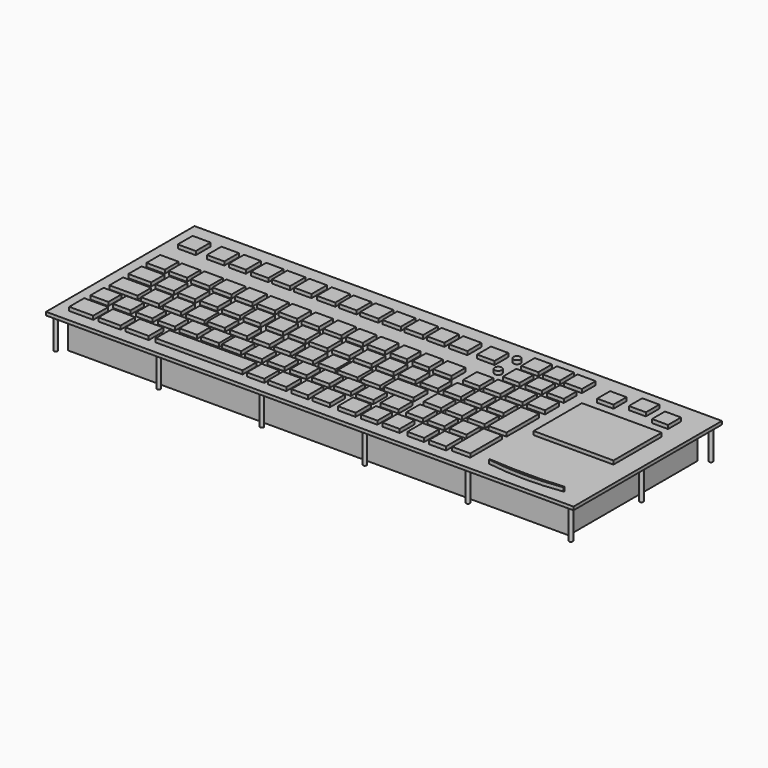
from build123d import *

# Parameters (mm, degrees)
F0_W     = 432
F0_H     = 152
F0_W_2   = 19.6858048439
F0_H_2   = 15.3465718031
F0_W_3   = 18.0640816689
F0_H_3   = 14.8716643453
F0_W_4   = 19.0963149071
F0_W_5   = 14.6065950394
F0_H_4   = 13.4158954024
F0_W_6   = 14.5390331745
F0_H_5   = 13.8498917222
F0_W_7   = 13.4540200233
F0_H_6   = 13.6328935623
F0_W_8   = 13.8880312443
F0_W_9   = 71.1652040482
F0_H_7   = 14.1954794526
F0_W_10  = 14.23304528
F0_H_8   = 15.1425004005
F0_W_11  = 14.9629376829
F0_H_9   = 15.3249725699
F0_W_12  = 13.6856138706
F0_H_10  = 15.8723965287
F0_W_13  = 14.7560238838
F0_W_14  = 15.6511217356
F0_H_11  = 13.8281211257
F0_W_15  = 13.8098299503
F0_H_12  = 14.4418887794
F0_W_16  = 13.8279125094
F0_W_17  = 13.5029405355
F0_H_13  = 13.5212317109
F0_W_18  = 14.4235920161
F0_W_19  = 22.991836071
F0_H_14  = 13.9925573021
F0_W_20  = 14.5979821682
F0_H_15  = 14.5399812609
F0_W_21  = 14.7304534912
F0_H_16  = 14.422448352
F0_W_22  = 15.1908099651
F0_H_17  = 14.2690055072
F0_W_23  = 14.2701566219
F0_H_18  = 13.9074269682
F0_W_24  = 13.9632672071
F0_H_19  = 14.060869813
F0_W_25  = 14.0641778708
F0_H_20  = 14.1697302461
F0_W_26  = 13.677097857
F0_H_21  = 14.5568177104
F0_W_27  = 14.1932144761
F0_H_22  = 14.9439051747
F0_W_28  = 14.0641853213
F0_W_29  = 16.2609871477
F0_H_23  = 15.0556545705
F0_W_30  = 14.3220252357
F0_H_24  = 15.6326293945
F0_W_31  = 14.5390294492
F0_W_32  = 13.2370218635
F0_H_25  = 15.1986330748
F0_W_33  = 14.1050219536
F0_H_26  = 15.4003128409
F0_W_34  = 13.712823391
F0_W_35  = 14.0045583248
F0_H_27  = 16.1302164197
F0_W_36  = 13.8098215684
F0_H_28  = 14.1350030899
F0_W_37  = 14.1167081892
F0_W_38  = 14.7304609418
F0_W_39  = 13.8098224998
F0_H_29  = 14.0074715018
F0_H_30  = 14.1899436712
F0_W_40  = 14.8306339979
F0_H_31  = 32.3330610991
F0_W_41  = 15.6511291862
F0_W_42  = 24.2439210415
F0_H_32  = 14.1349993646
F0_W_43  = 14.4235789776
F0_H_33  = 14.4418831915
F0_H_34  = 14.7482715547
F0_H_35  = 14.59482871
F0_H_36  = 33.4180630744
F0_W_44  = 18.6666846275
F0_H_37  = 13.4857883677
F0_W_45  = 14.8839354515
F0_H_38  = 14.0995569527
F0_W_46  = 14.116704464
F0_H_39  = 14.5598845556
F0_W_47  = 15.0373578072
F0_H_40  = 14.4064426422
F0_H_41  = 14.1167081892
F0_H_42  = 13.4232603014
F0_H_43  = 13.9632634819
F0_W_48  = 15.6511366367
F0_H_44  = 14.3147818744
F0_H_45  = 14.7751048207
F0_W_49  = 14.2330378294
F0_H_46  = 14.7486450151
F0_H_47  = 15.1135949418
F0_W_50  = 14.9629414082
F0_W_51  = 14.2330415547
F0_H_48  = 14.0187460929
F0_W_52  = 14.6135669202
F0_H_49  = 14.3836950883
F0_W_53  = 14.8839205503
F0_H_50  = 14.0078924596
F0_W_54  = 15.327885747
F0_H_51  = 14.3149830401
F0_W_55  = 14.4155174494
F0_W_56  = 14.7804692388
F0_H_52  = 15.0448828936
F0_W_57  = 13.9632634819
F0_H_53  = 14.0203051269
F0_W_58  = 14.4235882908
F0_H_54  = 13.8668641448
F0_W_59  = 14.7549808025
F0_H_55  = 15.1523277164
F0_W_60  = 14.2701268196
F0_H_56  = 14.8454457521
F0_W_61  = 13.809800148
F0_H_57  = 15.4592171311
F0_H_58  = 15.7660990953
F0_H_59  = 15.7078951597
F0_H_60  = 15.2475684881
F0_W_62  = 14.577023685
F0_H_61  = 15.0209292769
F0_W_63  = 14.8839130998
F0_H_62  = 15.4812559485
F0_W_64  = 15.0373615324
F0_H_63  = 15.1743665338
F0_W_65  = 15.1908043772
F0_W_66  = 14.2330406234
F0_W_67  = 13.8680972159
F0_W_68  = 14.2330527306
F0_H_64  = 14.7720631212
F0_W_69  = 13.851121068
F0_H_65  = 14.3117355183
F0_W_70  = 13.5029349476
F0_W_71  = 13.8098187745
F0_H_66  = 14.5885869861
F0_W_72  = 13.5031491518
F0_H_67  = 14.2236351967
F0_H_68  = 14.6817006171
F0_W_73  = 13.9953643084
F0_H_69  = 14.4992247224
F0_W_74  = 65.3664916754
F0_H_70  = 49.4084712118
F0_H_71  = 14.3167488277
F0_W_75  = 14.233039692
F0_H_72  = 14.8714780807
F0_H_73  = 14.5065262914
F0_W_76  = 14.2322406173
F0_H_74  = 14.141574502
F0_R     = 2.9038733045
F0_W_77  = 13.8342231512
F0_H_75  = 13.9150470495
F0_W_78  = 13.386875391
F0_H_76  = 13.3676230907
F0_R_2   = 2.9038759965
F0_W_79  = 14.0167027712
F0_H_77  = 13.8909220695
F0_W_80  = 13.9342993498
F0_H_78  = 14.504685998
F0_W_81  = 13.7357860804
F0_H_79  = 13.1851509213
F0_W_82  = 13.3785307407
F0_H_80  = 13.2292248309
F0_W_83  = 13.1381899118
F0_H_81  = 13.3206620812
F0_H_82  = 14.05056566
F0_W_84  = 13.9593333006
F0_H_83  = 13.6856175959
F1_DEPTH = 2.7
F2_DEPTH = 3
F3_DEPTH = 3
F4_W     = 410
F4_H     = 132
F5_DEPTH = 26
F4_R     = 1.5


with BuildPart() as f1:
    # F0 (on Top) → F1 (new body)
    with BuildSketch(Plane.XY):
        Rectangle(F0_W, F0_H)
        with Locations((-195.2944099903, -58.2195222378)):
            Rectangle(F0_W_2, F0_H_2, mode=Mode.SUBTRACT)
        with Locations((-172.3151057959, -58.2195222378)):
            Rectangle(F0_W_3, F0_H_3, mode=Mode.SUBTRACT)
        with Locations((-149.7349888086, -58.2195222378)):
            Rectangle(F0_W_4, F0_H_3, mode=Mode.SUBTRACT)
        with Locations((-197.1357166767, -38.2720008492)):
            Rectangle(F0_W_5, F0_H_4, mode=Mode.SUBTRACT)
        with Locations((-178.6569058895, -38.2720008492)):
            Rectangle(F0_W_6, F0_H_5, mode=Mode.SUBTRACT)
        with Locations((-160.2118760347, -38.2720008492)):
            Rectangle(F0_W_7, F0_H_6, mode=Mode.SUBTRACT)
        with Locations((-142.2008424997, -38.2720008492)):
            Rectangle(F0_W_8, F0_H_6, mode=Mode.SUBTRACT)
        with Locations((-124.2983043194, -38.2720008492)):
            Rectangle(F0_W_6, F0_H_6, mode=Mode.SUBTRACT)
        with Locations((-99.1674810648, -58.2195222378)):
            Rectangle(F0_W_9, F0_H_7, mode=Mode.SUBTRACT)
        with Locations((-52.5244884193, -58.2195222378)):
            Rectangle(F0_W_10, F0_H_8, mode=Mode.SUBTRACT)
        with Locations((-34.824423492, -58.2195222378)):
            Rectangle(F0_W_11, F0_H_9, mode=Mode.SUBTRACT)
        with Locations((-16.120750457, -58.2195222378)):
            Rectangle(F0_W_12, F0_H_10, mode=Mode.SUBTRACT)
        with Locations((-106.2872707844, -38.2720008492)):
            Rectangle(F0_W_13, F0_H_5, mode=Mode.SUBTRACT)
        with Locations((-88.6877849698, -38.2720008492)):
            Rectangle(F0_W_14, F0_H_11, mode=Mode.SUBTRACT)
        with Locations((-70.4281330109, -38.2720008492)):
            Rectangle(F0_W_15, F0_H_12, mode=Mode.SUBTRACT)
        with Locations((-52.321922034, -38.2720008492)):
            Rectangle(F0_W_16, F0_H_11, mode=Mode.SUBTRACT)
        with Locations((-34.0622700751, -38.2720008492)):
            Rectangle(F0_W_17, F0_H_13, mode=Mode.SUBTRACT)
        with Locations((-15.8026162535, -38.2720008492)):
            Rectangle(F0_W_18, F0_H_11, mode=Mode.SUBTRACT)
        with Locations((-192.1610683203, -19.5520184934)):
            Rectangle(F0_W_19, F0_H_14, mode=Mode.SUBTRACT)
        with Locations((-170.2640801668, -19.5520184934)):
            Rectangle(F0_W_20, F0_H_15, mode=Mode.SUBTRACT)
        with Locations((-152.1976143122, -19.5520184934)):
            Rectangle(F0_W_21, F0_H_16, mode=Mode.SUBTRACT)
        with Locations((-133.2474797964, -19.5520184934)):
            Rectangle(F0_W_22, F0_H_17, mode=Mode.SUBTRACT)
        with Locations((-116.2990480661, -19.5520184934)):
            Rectangle(F0_W_23, F0_H_18, mode=Mode.SUBTRACT)
        with Locations((-97.8859513998, -19.5520184934)):
            Rectangle(F0_W_24, F0_H_19, mode=Mode.SUBTRACT)
        with Locations((-79.4736742973, -19.5520184934)):
            Rectangle(F0_W_25, F0_H_20, mode=Mode.SUBTRACT)
        with Locations((-61.7966726422, -19.5520184934)):
            Rectangle(F0_W_26, F0_H_21, mode=Mode.SUBTRACT)
        with Locations((-43.603554368, -19.5520184934)):
            Rectangle(F0_W_27, F0_H_22, mode=Mode.SUBTRACT)
        with Locations((-24.9588321894, -19.5520184934)):
            Rectangle(F0_W_28, F0_H_22, mode=Mode.SUBTRACT)
        with Locations((-8.1304935738, -19.5520184934)):
            Rectangle(F0_W_29, F0_H_23, mode=Mode.SUBTRACT)
        with Locations((1.238662051, -58.2195222378)):
            Rectangle(F0_W_30, F0_H_24, mode=Mode.SUBTRACT)
        with Locations((22.2877003253, -58.2195222378)):
            Rectangle(F0_W_31, F0_H_24, mode=Mode.SUBTRACT)
        with Locations((40.6242348254, -58.2195222378)):
            Rectangle(F0_W_32, F0_H_25, mode=Mode.SUBTRACT)
        with Locations((58.5267692804, -58.2195222378)):
            Rectangle(F0_W_33, F0_H_26, mode=Mode.SUBTRACT)
        with Locations((78.7538290024, -58.2195222378)):
            Rectangle(F0_W_34, F0_H_26, mode=Mode.SUBTRACT)
        with Locations((96.8600437045, -58.2195222378)):
            Rectangle(F0_W_35, F0_H_27, mode=Mode.SUBTRACT)
        with Locations((2.303592395, -38.2720008492)):
            Rectangle(F0_W_36, F0_H_28, mode=Mode.SUBTRACT)
        with Locations((20.4098038375, -38.2720008492)):
            Rectangle(F0_W_37, F0_H_11, mode=Mode.SUBTRACT)
        with Locations((40.817655623, -38.2720008492)):
            Rectangle(F0_W_38, F0_H_28, mode=Mode.SUBTRACT)
        with Locations((61.3789372146, -38.2720008492)):
            Rectangle(F0_W_39, F0_H_28, mode=Mode.SUBTRACT)
        with Locations((78.7538290024, -38.2720008492)):
            Rectangle(F0_W_34, F0_H_29, mode=Mode.SUBTRACT)
        with Locations((96.8600437045, -38.2720008492)):
            Rectangle(F0_W_35, F0_H_30, mode=Mode.SUBTRACT)
        with BuildLine():
            ThreePointArc((198.1921344995, -63.7223303142), (167.4477950119, -65.875188232), (136.7267668247, -63.4119312677))
            Line((136.7267668247, -63.4119312677), (136.7267668247, -62.627417275))
            ThreePointArc((136.7267668247, -62.627417275), (167.458373294, -63.8750899385), (198.1921344995, -62.6816724029))
            Line((198.1921344995, -62.6816724029), (198.1921344995, -63.7223303142))
        make_face(mode=Mode.SUBTRACT)
        with Locations((114.6593615413, -48.113040626)):
            Rectangle(F0_W_40, F0_H_31, mode=Mode.SUBTRACT)
        with Locations((10.589485988, -19.5520184934)):
            Rectangle(F0_W_41, F0_H_23, mode=Mode.SUBTRACT)
        with Locations((33.2989692688, -19.5520184934)):
            Rectangle(F0_W_42, F0_H_32, mode=Mode.SUBTRACT)
        with Locations((61.0720589757, -19.5520184934)):
            Rectangle(F0_W_43, F0_H_33, mode=Mode.SUBTRACT)
        with Locations((78.7538290024, -19.5520184934)):
            Rectangle(F0_W_34, F0_H_34, mode=Mode.SUBTRACT)
        with Locations((96.8600437045, -19.5520184934)):
            Rectangle(F0_W_35, F0_H_35, mode=Mode.SUBTRACT)
        with Locations((114.6593615413, -10.4451104999)):
            Rectangle(F0_W_40, F0_H_36, mode=Mode.SUBTRACT)
        with Locations((-194.6806311607, 0)):
            Rectangle(F0_W_44, F0_H_37, mode=Mode.SUBTRACT)
        with Locations((-173.9925593138, 0)):
            Rectangle(F0_W_45, F0_H_38, mode=Mode.SUBTRACT)
        with Locations((-155.8863371611, 0)):
            Rectangle(F0_W_46, F0_H_39, mode=Mode.SUBTRACT)
        with Locations((-138.0102932453, 0)):
            Rectangle(F0_W_23, F0_H_38, mode=Mode.SUBTRACT)
        with Locations((-119.5204779506, 0)):
            Rectangle(F0_W_47, F0_H_40, mode=Mode.SUBTRACT)
        with Locations((-197.0462352037, 19.5359699428)):
            Rectangle(F0_W_47, F0_H_41, mode=Mode.SUBTRACT)
        with Locations((-178.9400279522, 19.4223653525)):
            Rectangle(F0_W_47, F0_H_42, mode=Mode.SUBTRACT)
        with Locations((-160.6968343258, 19.5214021951)):
            Rectangle(F0_W_22, F0_H_43, mode=Mode.SUBTRACT)
        with Locations((-142.5139009953, 19.4223653525)):
            Rectangle(F0_W_48, F0_H_44, mode=Mode.SUBTRACT)
        with Locations((-124.5901584625, 19.4223653525)):
            Rectangle(F0_W_23, F0_H_45, mode=Mode.SUBTRACT)
        with Locations((-102.2331565619, 0)):
            Rectangle(F0_W_49, F0_H_46, mode=Mode.SUBTRACT)
        with Locations((-83.6207196116, 0)):
            Rectangle(F0_W_49, F0_H_47, mode=Mode.SUBTRACT)
        with Locations((-65.3732344508, 0)):
            Rectangle(F0_W_49, F0_H_46, mode=Mode.SUBTRACT)
        with Locations((-47.8556491435, 0)):
            Rectangle(F0_W_50, F0_H_47, mode=Mode.SUBTRACT)
        with Locations((-29.9731120467, 0)):
            Rectangle(F0_W_51, F0_H_48, mode=Mode.SUBTRACT)
        with Locations((-11.9081018493, 0)):
            Rectangle(F0_W_52, F0_H_49, mode=Mode.SUBTRACT)
        with Locations((-106.483951211, 19.4223653525)):
            Rectangle(F0_W_53, F0_H_50, mode=Mode.SUBTRACT)
        with Locations((-88.570125401, 19.4223653525)):
            Rectangle(F0_W_54, F0_H_51, mode=Mode.SUBTRACT)
        with Locations((-70.1401680708, 19.4223653525)):
            Rectangle(F0_W_55, F0_H_51, mode=Mode.SUBTRACT)
        with Locations((-51.89268291, 19.4223653525)):
            Rectangle(F0_W_56, F0_H_52, mode=Mode.SUBTRACT)
        with Locations((-34.2791639268, 19.4223653525)):
            Rectangle(F0_W_57, F0_H_53, mode=Mode.SUBTRACT)
        with Locations((-16.4031162858, 19.4223653525)):
            Rectangle(F0_W_58, F0_H_54, mode=Mode.SUBTRACT)
        with Locations((-197.5557804108, 52.5941327214)):
            Rectangle(F0_W_59, F0_H_55, mode=Mode.SUBTRACT)
        with Locations((-174.0668267012, 52.5941327214)):
            Rectangle(F0_W_60, F0_H_56, mode=Mode.SUBTRACT)
        with Locations((-155.9606194496, 52.5941327214)):
            Rectangle(F0_W_61, F0_H_57, mode=Mode.SUBTRACT)
        with Locations((-137.7009749413, 52.5941327214)):
            Rectangle(F0_W_23, F0_H_58, mode=Mode.SUBTRACT)
        with Locations((-120.1712265611, 52.5941327214)):
            Rectangle(F0_W_53, F0_H_59, mode=Mode.SUBTRACT)
        with Locations((-102.2951826453, 52.5941327214)):
            Rectangle(F0_W_23, F0_H_59, mode=Mode.SUBTRACT)
        with Locations((-83.4217593074, 52.5941327214)):
            Rectangle(F0_W_47, F0_H_60, mode=Mode.SUBTRACT)
        with Locations((-65.7767578959, 52.5941327214)):
            Rectangle(F0_W_62, F0_H_61, mode=Mode.SUBTRACT)
        with Locations((-47.9007139802, 52.5941327214)):
            Rectangle(F0_W_63, F0_H_62, mode=Mode.SUBTRACT)
        with Locations((-29.794504866, 52.5941327214)):
            Rectangle(F0_W_64, F0_H_63, mode=Mode.SUBTRACT)
        with Locations((-11.5348519757, 52.5941327214)):
            Rectangle(F0_W_65, F0_H_63, mode=Mode.SUBTRACT)
        with Locations((6.3393884338, 0)):
            Rectangle(F0_W_66, F0_H_48, mode=Mode.SUBTRACT)
        with Locations((24.586873129, 0)):
            Rectangle(F0_W_67, F0_H_49, mode=Mode.SUBTRACT)
        with Locations((42.6518842578, 0)):
            Rectangle(F0_W_49, F0_H_48, mode=Mode.SUBTRACT)
        with Locations((61.4467933774, 0)):
            Rectangle(F0_W_68, F0_H_48, mode=Mode.SUBTRACT)
        with Locations((78.7538290024, 0)):
            Rectangle(F0_W_34, F0_H_64, mode=Mode.SUBTRACT)
        with Locations((96.8600437045, 0)):
            Rectangle(F0_W_69, F0_H_65, mode=Mode.SUBTRACT)
        with Locations((2.0866999403, 19.4223653525)):
            Rectangle(F0_W_70, F0_H_54, mode=Mode.SUBTRACT)
        with Locations((20.1929099858, 19.4223653525)):
            Rectangle(F0_W_71, F0_H_53, mode=Mode.SUBTRACT)
        with Locations((38.0900092423, 19.4223653525)):
            Rectangle(F0_W_50, F0_H_66, mode=Mode.SUBTRACT)
        with Locations((61.6292729974, 19.4223653525)):
            Rectangle(F0_W_72, F0_H_67, mode=Mode.SUBTRACT)
        with Locations((78.7538290024, 19.4223653525)):
            Rectangle(F0_W_34, F0_H_68, mode=Mode.SUBTRACT)
        with Locations((96.8600437045, 19.4223653525)):
            Rectangle(F0_W_73, F0_H_69, mode=Mode.SUBTRACT)
        with Locations((166.9832393527, 10.0623751059)):
            Rectangle(F0_W_74, F0_H_70, mode=Mode.SUBTRACT)
        with Locations((114.6593615413, 19.4223653525)):
            Rectangle(F0_W_40, F0_H_71, mode=Mode.SUBTRACT)
        with Locations((6.2201526016, 52.5941327214)):
            Rectangle(F0_W_75, F0_H_72, mode=Mode.SUBTRACT)
        with Locations((24.5588757098, 52.5941327214)):
            Rectangle(F0_W_50, F0_H_73, mode=Mode.SUBTRACT)
        with Locations((47.0036827028, 52.5941327214)):
            Rectangle(F0_W_76, F0_H_74, mode=Mode.SUBTRACT)
        with Locations((62.787361443, 38.4980626404)):
            Circle(F0_R, mode=Mode.SUBTRACT)
        with Locations((78.7538290024, 38.7935265899)):
            Rectangle(F0_W_77, F0_H_75, mode=Mode.SUBTRACT)
        with Locations((96.8600437045, 38.7935265899)):
            Rectangle(F0_W_78, F0_H_76, mode=Mode.SUBTRACT)
        with Locations((62.9698336124, 57.5666874647)):
            Circle(F0_R_2, mode=Mode.SUBTRACT)
        with Locations((78.7538290024, 57.7829778194)):
            Rectangle(F0_W_79, F0_H_77, mode=Mode.SUBTRACT)
        with Locations((96.8600437045, 57.4760958552)):
            Rectangle(F0_W_80, F0_H_78, mode=Mode.SUBTRACT)
        with Locations((114.6593615413, 38.7935265899)):
            Rectangle(F0_W_81, F0_H_79, mode=Mode.SUBTRACT)
        with Locations((144.6718871593, 52.4290818721)):
            Rectangle(F0_W_82, F0_H_80, mode=Mode.SUBTRACT)
        with Locations((189.5896270871, 52.2921234369)):
            Rectangle(F0_W_83, F0_H_81, mode=Mode.SUBTRACT)
        with Locations((114.6593615413, 57.0644922554)):
            Rectangle(F0_W_40, F0_H_82, mode=Mode.SUBTRACT)
        with Locations((167.1908423305, 57.3101844639)):
            Rectangle(F0_W_84, F0_H_83, mode=Mode.SUBTRACT)
        with Locations((166.9832393527, 10.0623751059)):
            Rectangle(F0_W_74, F0_H_70)
        with Locations((-99.1674810648, -58.2195222378)):
            Rectangle(F0_W_9, F0_H_7)
        with Locations((114.6593615413, -10.4451104999)):
            Rectangle(F0_W_40, F0_H_36)
        with Locations((114.6593615413, -48.113040626)):
            Rectangle(F0_W_40, F0_H_31)
        with Locations((33.2989692688, -19.5520184934)):
            Rectangle(F0_W_42, F0_H_32)
        with Locations((-192.1610683203, -19.5520184934)):
            Rectangle(F0_W_19, F0_H_14)
        with Locations((-195.2944099903, -58.2195222378)):
            Rectangle(F0_W_2, F0_H_2)
        with Locations((-149.7349888086, -58.2195222378)):
            Rectangle(F0_W_4, F0_H_3)
        with Locations((-172.3151057959, -58.2195222378)):
            Rectangle(F0_W_3, F0_H_3)
        with Locations((-194.6806311607, 0)):
            Rectangle(F0_W_44, F0_H_37)
        with Locations((-8.1304935738, -19.5520184934)):
            Rectangle(F0_W_29, F0_H_23)
        with Locations((10.589485988, -19.5520184934)):
            Rectangle(F0_W_41, F0_H_23)
        with Locations((-120.1712265611, 52.5941327214)):
            Rectangle(F0_W_53, F0_H_59)
        with Locations((-11.5348519757, 52.5941327214)):
            Rectangle(F0_W_65, F0_H_63)
        with Locations((-47.9007139802, 52.5941327214)):
            Rectangle(F0_W_63, F0_H_62)
        with Locations((-34.824423492, -58.2195222378)):
            Rectangle(F0_W_11, F0_H_9)
        with Locations((-83.4217593074, 52.5941327214)):
            Rectangle(F0_W_47, F0_H_60)
        with Locations((-29.794504866, 52.5941327214)):
            Rectangle(F0_W_64, F0_H_63)
        with Locations((22.2877003253, -58.2195222378)):
            Rectangle(F0_W_31, F0_H_24)
        with Locations((-47.8556491435, 0)):
            Rectangle(F0_W_50, F0_H_47)
        with Locations((96.8600437045, -58.2195222378)):
            Rectangle(F0_W_35, F0_H_27)
        with Locations((-137.7009749413, 52.5941327214)):
            Rectangle(F0_W_23, F0_H_58)
        with Locations((-102.2951826453, 52.5941327214)):
            Rectangle(F0_W_23, F0_H_59)
        with Locations((-142.5139009953, 19.4223653525)):
            Rectangle(F0_W_48, F0_H_44)
        with Locations((1.238662051, -58.2195222378)):
            Rectangle(F0_W_30, F0_H_24)
        with Locations((-197.5557804108, 52.5941327214)):
            Rectangle(F0_W_59, F0_H_55)
        with Locations((-51.89268291, 19.4223653525)):
            Rectangle(F0_W_56, F0_H_52)
        with Locations((-88.570125401, 19.4223653525)):
            Rectangle(F0_W_54, F0_H_51)
        with Locations((-65.7767578959, 52.5941327214)):
            Rectangle(F0_W_62, F0_H_61)
        with Locations((38.0900092423, 19.4223653525)):
            Rectangle(F0_W_50, F0_H_66)
        with Locations((-16.120750457, -58.2195222378)):
            Rectangle(F0_W_12, F0_H_10)
        with Locations((58.5267692804, -58.2195222378)):
            Rectangle(F0_W_33, F0_H_26)
        with Locations((24.5588757098, 52.5941327214)):
            Rectangle(F0_W_50, F0_H_73)
        with Locations((-133.2474797964, -19.5520184934)):
            Rectangle(F0_W_22, F0_H_17)
        with Locations((-119.5204779506, 0)):
            Rectangle(F0_W_47, F0_H_40)
        with Locations((-88.6877849698, -38.2720008492)):
            Rectangle(F0_W_14, F0_H_11)
        with Locations((-52.5244884193, -58.2195222378)):
            Rectangle(F0_W_10, F0_H_8)
        with Locations((-83.6207196116, 0)):
            Rectangle(F0_W_49, F0_H_47)
        with Locations((-155.9606194496, 52.5941327214)):
            Rectangle(F0_W_61, F0_H_57)
        with Locations((-152.1976143122, -19.5520184934)):
            Rectangle(F0_W_21, F0_H_16)
        with Locations((114.6593615413, 19.4223653525)):
            Rectangle(F0_W_40, F0_H_71)
        with Locations((-197.0462352037, 19.5359699428)):
            Rectangle(F0_W_47, F0_H_41)
        with Locations((-170.2640801668, -19.5520184934)):
            Rectangle(F0_W_20, F0_H_15)
        with Locations((-160.6968343258, 19.5214021951)):
            Rectangle(F0_W_22, F0_H_43)
        with Locations((-43.603554368, -19.5520184934)):
            Rectangle(F0_W_27, F0_H_22)
        with Locations((-174.0668267012, 52.5941327214)):
            Rectangle(F0_W_60, F0_H_56)
        with Locations((6.2201526016, 52.5941327214)):
            Rectangle(F0_W_75, F0_H_72)
        with Locations((78.7538290024, -58.2195222378)):
            Rectangle(F0_W_34, F0_H_26)
        with Locations((-124.5901584625, 19.4223653525)):
            Rectangle(F0_W_23, F0_H_45)
        with Locations((-11.9081018493, 0)):
            Rectangle(F0_W_52, F0_H_49)
        with Locations((-24.9588321894, -19.5520184934)):
            Rectangle(F0_W_28, F0_H_22)
        with Locations((-65.3732344508, 0)):
            Rectangle(F0_W_49, F0_H_46)
        with Locations((-102.2331565619, 0)):
            Rectangle(F0_W_49, F0_H_46)
        with Locations((-173.9925593138, 0)):
            Rectangle(F0_W_45, F0_H_38)
        with Locations((-106.483951211, 19.4223653525)):
            Rectangle(F0_W_53, F0_H_50)
        with Locations((114.6593615413, 57.0644922554)):
            Rectangle(F0_W_40, F0_H_82)
        with Locations((61.0720589757, -19.5520184934)):
            Rectangle(F0_W_43, F0_H_33)
        with Locations((40.817655623, -38.2720008492)):
            Rectangle(F0_W_38, F0_H_28)
        with Locations((-70.1401680708, 19.4223653525)):
            Rectangle(F0_W_55, F0_H_51)
        with Locations((-155.8863371611, 0)):
            Rectangle(F0_W_46, F0_H_39)
        with Locations((96.8600437045, -19.5520184934)):
            Rectangle(F0_W_35, F0_H_35)
        with Locations((-106.2872707844, -38.2720008492)):
            Rectangle(F0_W_13, F0_H_5)
        with Locations((96.8600437045, 19.4223653525)):
            Rectangle(F0_W_73, F0_H_69)
        with Locations((78.7538290024, 0)):
            Rectangle(F0_W_34, F0_H_64)
        with Locations((78.7538290024, -19.5520184934)):
            Rectangle(F0_W_34, F0_H_34)
        with Locations((96.8600437045, 57.4760958552)):
            Rectangle(F0_W_80, F0_H_78)
        with Locations((-178.9400279522, 19.4223653525)):
            Rectangle(F0_W_47, F0_H_42)
        with Locations((-178.6569058895, -38.2720008492)):
            Rectangle(F0_W_6, F0_H_5)
        with Locations((78.7538290024, 19.4223653525)):
            Rectangle(F0_W_34, F0_H_68)
        with Locations((47.0036827028, 52.5941327214)):
            Rectangle(F0_W_76, F0_H_74)
        with Locations((-138.0102932453, 0)):
            Rectangle(F0_W_23, F0_H_38)
        with Locations((40.6242348254, -58.2195222378)):
            Rectangle(F0_W_32, F0_H_25)
        with Locations((-16.4031162858, 19.4223653525)):
            Rectangle(F0_W_58, F0_H_54)
        with Locations((61.4467933774, 0)):
            Rectangle(F0_W_68, F0_H_48)
        with Locations((-29.9731120467, 0)):
            Rectangle(F0_W_51, F0_H_48)
        with Locations((6.3393884338, 0)):
            Rectangle(F0_W_66, F0_H_48)
        with Locations((42.6518842578, 0)):
            Rectangle(F0_W_49, F0_H_48)
        with Locations((24.586873129, 0)):
            Rectangle(F0_W_67, F0_H_49)
        with Locations((-15.8026162535, -38.2720008492)):
            Rectangle(F0_W_18, F0_H_11)
        with Locations((-70.4281330109, -38.2720008492)):
            Rectangle(F0_W_15, F0_H_12)
        with Locations((-79.4736742973, -19.5520184934)):
            Rectangle(F0_W_25, F0_H_20)
        with Locations((-61.7966726422, -19.5520184934)):
            Rectangle(F0_W_26, F0_H_21)
        with Locations((96.8600437045, -38.2720008492)):
            Rectangle(F0_W_35, F0_H_30)
        with Locations((-116.2990480661, -19.5520184934)):
            Rectangle(F0_W_23, F0_H_18)
        with Locations((96.8600437045, 0)):
            Rectangle(F0_W_69, F0_H_65)
        with Locations((-124.2983043194, -38.2720008492)):
            Rectangle(F0_W_6, F0_H_6)
        with Locations((-97.8859513998, -19.5520184934)):
            Rectangle(F0_W_24, F0_H_19)
        with Locations((-197.1357166767, -38.2720008492)):
            Rectangle(F0_W_5, F0_H_4)
        with Locations((-34.2791639268, 19.4223653525)):
            Rectangle(F0_W_57, F0_H_53)
        with Locations((20.4098038375, -38.2720008492)):
            Rectangle(F0_W_37, F0_H_11)
        with Locations((61.3789372146, -38.2720008492)):
            Rectangle(F0_W_39, F0_H_28)
        with Locations((2.303592395, -38.2720008492)):
            Rectangle(F0_W_36, F0_H_28)
        with Locations((78.7538290024, 57.7829778194)):
            Rectangle(F0_W_79, F0_H_77)
        with Locations((20.1929099858, 19.4223653525)):
            Rectangle(F0_W_71, F0_H_53)
        with Locations((78.7538290024, 38.7935265899)):
            Rectangle(F0_W_77, F0_H_75)
        with Locations((78.7538290024, -38.2720008492)):
            Rectangle(F0_W_34, F0_H_29)
        with Locations((61.6292729974, 19.4223653525)):
            Rectangle(F0_W_72, F0_H_67)
        with Locations((-52.321922034, -38.2720008492)):
            Rectangle(F0_W_16, F0_H_11)
        with Locations((167.1908423305, 57.3101844639)):
            Rectangle(F0_W_84, F0_H_83)
        with Locations((-142.2008424997, -38.2720008492)):
            Rectangle(F0_W_8, F0_H_6)
        with Locations((2.0866999403, 19.4223653525)):
            Rectangle(F0_W_70, F0_H_54)
        with Locations((-160.2118760347, -38.2720008492)):
            Rectangle(F0_W_7, F0_H_6)
        with Locations((-34.0622700751, -38.2720008492)):
            Rectangle(F0_W_17, F0_H_13)
        with Locations((114.6593615413, 38.7935265899)):
            Rectangle(F0_W_81, F0_H_79)
        with Locations((96.8600437045, 38.7935265899)):
            Rectangle(F0_W_78, F0_H_76)
        with Locations((144.6718871593, 52.4290818721)):
            Rectangle(F0_W_82, F0_H_80)
        with Locations((189.5896270871, 52.2921234369)):
            Rectangle(F0_W_83, F0_H_81)
        with BuildLine():
            Line((136.7267668247, -62.627417275), (136.7267668247, -63.4119312677))
            ThreePointArc((136.7267668247, -63.4119312677), (167.4477950119, -65.875188232), (198.1921344995, -63.7223303142))
            Line((198.1921344995, -63.7223303142), (198.1921344995, -62.6816724029))
            ThreePointArc((198.1921344995, -62.6816724029), (167.458373294, -63.8750899385), (136.7267668247, -62.627417275))
        make_face()
        with Locations((62.9698336124, 57.5666874647)):
            Circle(F0_R_2)
        with Locations((62.787361443, 38.4980626404)):
            Circle(F0_R)
    extrude(amount=-F1_DEPTH)


with BuildPart() as f2:
    # F0 (on Top) → F2 (new body)
    with BuildSketch(Plane.XY):
        with Locations((-197.5557804108, 52.5941327214)):
            Rectangle(F0_W_59, F0_H_55)
        with Locations((-174.0668267012, 52.5941327214)):
            Rectangle(F0_W_60, F0_H_56)
        with Locations((-155.9606194496, 52.5941327214)):
            Rectangle(F0_W_61, F0_H_57)
        with Locations((-137.7009749413, 52.5941327214)):
            Rectangle(F0_W_23, F0_H_58)
        with Locations((-120.1712265611, 52.5941327214)):
            Rectangle(F0_W_53, F0_H_59)
        with Locations((-102.2951826453, 52.5941327214)):
            Rectangle(F0_W_23, F0_H_59)
        with Locations((-83.4217593074, 52.5941327214)):
            Rectangle(F0_W_47, F0_H_60)
        with Locations((-65.7767578959, 52.5941327214)):
            Rectangle(F0_W_62, F0_H_61)
        with Locations((-47.9007139802, 52.5941327214)):
            Rectangle(F0_W_63, F0_H_62)
        with Locations((-29.794504866, 52.5941327214)):
            Rectangle(F0_W_64, F0_H_63)
        with Locations((-11.5348519757, 52.5941327214)):
            Rectangle(F0_W_65, F0_H_63)
        with Locations((6.2201526016, 52.5941327214)):
            Rectangle(F0_W_75, F0_H_72)
        with Locations((24.5588757098, 52.5941327214)):
            Rectangle(F0_W_50, F0_H_73)
        with Locations((47.0036827028, 52.5941327214)):
            Rectangle(F0_W_76, F0_H_74)
        with Locations((78.7538290024, 57.7829778194)):
            Rectangle(F0_W_79, F0_H_77)
        with Locations((96.8600437045, 57.4760958552)):
            Rectangle(F0_W_80, F0_H_78)
        with Locations((114.6593615413, 57.0644922554)):
            Rectangle(F0_W_40, F0_H_82)
        with Locations((144.6718871593, 52.4290818721)):
            Rectangle(F0_W_82, F0_H_80)
        with Locations((167.1908423305, 57.3101844639)):
            Rectangle(F0_W_84, F0_H_83)
        with Locations((189.5896270871, 52.2921234369)):
            Rectangle(F0_W_83, F0_H_81)
        with Locations((166.9832393527, 10.0623751059)):
            Rectangle(F0_W_74, F0_H_70)
        with Locations((114.6593615413, -48.113040626)):
            Rectangle(F0_W_40, F0_H_31)
        with BuildLine():
            Line((136.7267668247, -62.627417275), (136.7267668247, -63.4119312677))
            ThreePointArc((136.7267668247, -63.4119312677), (167.4477950119, -65.875188232), (198.1921344995, -63.7223303142))
            Line((198.1921344995, -63.7223303142), (198.1921344995, -62.6816724029))
            ThreePointArc((198.1921344995, -62.6816724029), (167.458373294, -63.8750899385), (136.7267668247, -62.627417275))
        make_face()
        with Locations((114.6593615413, -10.4451104999)):
            Rectangle(F0_W_40, F0_H_36)
        with Locations((114.6593615413, 19.4223653525)):
            Rectangle(F0_W_40, F0_H_71)
        with Locations((114.6593615413, 38.7935265899)):
            Rectangle(F0_W_81, F0_H_79)
        with Locations((96.8600437045, 38.7935265899)):
            Rectangle(F0_W_78, F0_H_76)
        with Locations((78.7538290024, 38.7935265899)):
            Rectangle(F0_W_77, F0_H_75)
        with Locations((78.7538290024, 19.4223653525)):
            Rectangle(F0_W_34, F0_H_68)
        with Locations((96.8600437045, 19.4223653525)):
            Rectangle(F0_W_73, F0_H_69)
        with Locations((96.8600437045, 0)):
            Rectangle(F0_W_69, F0_H_65)
        with Locations((78.7538290024, 0)):
            Rectangle(F0_W_34, F0_H_64)
        with Locations((78.7538290024, -19.5520184934)):
            Rectangle(F0_W_34, F0_H_34)
        with Locations((96.8600437045, -19.5520184934)):
            Rectangle(F0_W_35, F0_H_35)
        with Locations((96.8600437045, -38.2720008492)):
            Rectangle(F0_W_35, F0_H_30)
        with Locations((78.7538290024, -38.2720008492)):
            Rectangle(F0_W_34, F0_H_29)
        with Locations((78.7538290024, -58.2195222378)):
            Rectangle(F0_W_34, F0_H_26)
        with Locations((96.8600437045, -58.2195222378)):
            Rectangle(F0_W_35, F0_H_27)
        with Locations((58.5267692804, -58.2195222378)):
            Rectangle(F0_W_33, F0_H_26)
        with Locations((61.3789372146, -38.2720008492)):
            Rectangle(F0_W_39, F0_H_28)
        with Locations((61.0720589757, -19.5520184934)):
            Rectangle(F0_W_43, F0_H_33)
        with Locations((61.4467933774, 0)):
            Rectangle(F0_W_68, F0_H_48)
        with Locations((61.6292729974, 19.4223653525)):
            Rectangle(F0_W_72, F0_H_67)
        with Locations((38.0900092423, 19.4223653525)):
            Rectangle(F0_W_50, F0_H_66)
        with Locations((42.6518842578, 0)):
            Rectangle(F0_W_49, F0_H_48)
        with Locations((33.2989692688, -19.5520184934)):
            Rectangle(F0_W_42, F0_H_32)
        with Locations((40.817655623, -38.2720008492)):
            Rectangle(F0_W_38, F0_H_28)
        with Locations((40.6242348254, -58.2195222378)):
            Rectangle(F0_W_32, F0_H_25)
        with Locations((22.2877003253, -58.2195222378)):
            Rectangle(F0_W_31, F0_H_24)
        with Locations((20.4098038375, -38.2720008492)):
            Rectangle(F0_W_37, F0_H_11)
        with Locations((10.589485988, -19.5520184934)):
            Rectangle(F0_W_41, F0_H_23)
        with Locations((24.586873129, 0)):
            Rectangle(F0_W_67, F0_H_49)
        with Locations((20.1929099858, 19.4223653525)):
            Rectangle(F0_W_71, F0_H_53)
        with Locations((2.0866999403, 19.4223653525)):
            Rectangle(F0_W_70, F0_H_54)
        with Locations((6.3393884338, 0)):
            Rectangle(F0_W_66, F0_H_48)
        with Locations((-8.1304935738, -19.5520184934)):
            Rectangle(F0_W_29, F0_H_23)
        with Locations((2.303592395, -38.2720008492)):
            Rectangle(F0_W_36, F0_H_28)
        with Locations((1.238662051, -58.2195222378)):
            Rectangle(F0_W_30, F0_H_24)
        with Locations((-16.120750457, -58.2195222378)):
            Rectangle(F0_W_12, F0_H_10)
        with Locations((-34.824423492, -58.2195222378)):
            Rectangle(F0_W_11, F0_H_9)
        with Locations((-52.5244884193, -58.2195222378)):
            Rectangle(F0_W_10, F0_H_8)
        with Locations((-99.1674810648, -58.2195222378)):
            Rectangle(F0_W_9, F0_H_7)
        with Locations((-149.7349888086, -58.2195222378)):
            Rectangle(F0_W_4, F0_H_3)
        with Locations((-172.3151057959, -58.2195222378)):
            Rectangle(F0_W_3, F0_H_3)
        with Locations((-195.2944099903, -58.2195222378)):
            Rectangle(F0_W_2, F0_H_2)
        with Locations((-197.1357166767, -38.2720008492)):
            Rectangle(F0_W_5, F0_H_4)
        with Locations((-178.6569058895, -38.2720008492)):
            Rectangle(F0_W_6, F0_H_5)
        with Locations((-160.2118760347, -38.2720008492)):
            Rectangle(F0_W_7, F0_H_6)
        with Locations((-142.2008424997, -38.2720008492)):
            Rectangle(F0_W_8, F0_H_6)
        with Locations((-124.2983043194, -38.2720008492)):
            Rectangle(F0_W_6, F0_H_6)
        with Locations((-106.2872707844, -38.2720008492)):
            Rectangle(F0_W_13, F0_H_5)
        with Locations((-88.6877849698, -38.2720008492)):
            Rectangle(F0_W_14, F0_H_11)
        with Locations((-70.4281330109, -38.2720008492)):
            Rectangle(F0_W_15, F0_H_12)
        with Locations((-52.321922034, -38.2720008492)):
            Rectangle(F0_W_16, F0_H_11)
        with Locations((-34.0622700751, -38.2720008492)):
            Rectangle(F0_W_17, F0_H_13)
        with Locations((-15.8026162535, -38.2720008492)):
            Rectangle(F0_W_18, F0_H_11)
        with Locations((-24.9588321894, -19.5520184934)):
            Rectangle(F0_W_28, F0_H_22)
        with Locations((-43.603554368, -19.5520184934)):
            Rectangle(F0_W_27, F0_H_22)
        with Locations((-61.7966726422, -19.5520184934)):
            Rectangle(F0_W_26, F0_H_21)
        with Locations((-79.4736742973, -19.5520184934)):
            Rectangle(F0_W_25, F0_H_20)
        with Locations((-97.8859513998, -19.5520184934)):
            Rectangle(F0_W_24, F0_H_19)
        with Locations((-116.2990480661, -19.5520184934)):
            Rectangle(F0_W_23, F0_H_18)
        with Locations((-133.2474797964, -19.5520184934)):
            Rectangle(F0_W_22, F0_H_17)
        with Locations((-152.1976143122, -19.5520184934)):
            Rectangle(F0_W_21, F0_H_16)
        with Locations((-170.2640801668, -19.5520184934)):
            Rectangle(F0_W_20, F0_H_15)
        with Locations((-192.1610683203, -19.5520184934)):
            Rectangle(F0_W_19, F0_H_14)
        with Locations((-194.6806311607, 0)):
            Rectangle(F0_W_44, F0_H_37)
        with Locations((-173.9925593138, 0)):
            Rectangle(F0_W_45, F0_H_38)
        with Locations((-155.8863371611, 0)):
            Rectangle(F0_W_46, F0_H_39)
        with Locations((-138.0102932453, 0)):
            Rectangle(F0_W_23, F0_H_38)
        with Locations((-119.5204779506, 0)):
            Rectangle(F0_W_47, F0_H_40)
        with Locations((-102.2331565619, 0)):
            Rectangle(F0_W_49, F0_H_46)
        with Locations((-83.6207196116, 0)):
            Rectangle(F0_W_49, F0_H_47)
        with Locations((-65.3732344508, 0)):
            Rectangle(F0_W_49, F0_H_46)
        with Locations((-47.8556491435, 0)):
            Rectangle(F0_W_50, F0_H_47)
        with Locations((-29.9731120467, 0)):
            Rectangle(F0_W_51, F0_H_48)
        with Locations((-11.9081018493, 0)):
            Rectangle(F0_W_52, F0_H_49)
        with Locations((-16.4031162858, 19.4223653525)):
            Rectangle(F0_W_58, F0_H_54)
        with Locations((-34.2791639268, 19.4223653525)):
            Rectangle(F0_W_57, F0_H_53)
        with Locations((-51.89268291, 19.4223653525)):
            Rectangle(F0_W_56, F0_H_52)
        with Locations((-70.1401680708, 19.4223653525)):
            Rectangle(F0_W_55, F0_H_51)
        with Locations((-88.570125401, 19.4223653525)):
            Rectangle(F0_W_54, F0_H_51)
        with Locations((-106.483951211, 19.4223653525)):
            Rectangle(F0_W_53, F0_H_50)
        with Locations((-124.5901584625, 19.4223653525)):
            Rectangle(F0_W_23, F0_H_45)
        with Locations((-142.5139009953, 19.4223653525)):
            Rectangle(F0_W_48, F0_H_44)
        with Locations((-160.6968343258, 19.5214021951)):
            Rectangle(F0_W_22, F0_H_43)
        with Locations((-178.9400279522, 19.4223653525)):
            Rectangle(F0_W_47, F0_H_42)
        with Locations((-197.0462352037, 19.5359699428)):
            Rectangle(F0_W_47, F0_H_41)
    extrude(amount=F2_DEPTH)


with BuildPart() as f3:
    # F0 (on Top) → F3 (new body)
    with BuildSketch(Plane.XY):
        with Locations((62.9698336124, 57.5666874647)):
            Circle(F0_R_2)
    extrude(amount=F3_DEPTH)


with BuildPart() as f3b:
    # F0 (on Top) → F3, piece 2 (new body)
    with BuildSketch(Plane.XY):
        with Locations((62.787361443, 38.4980626404)):
            Circle(F0_R)
    extrude(amount=F3_DEPTH)


with BuildPart() as f5:
    # F4 (on face) → F5 (new body)
    with BuildSketch(Plane(origin=(0, 0, -2.7), x_dir=(1, 0, 0), z_dir=(0, 0, -1))):
        with Locations((-1, 0)):
            Rectangle(F4_W, F4_H)
    extrude(amount=F5_DEPTH)


with BuildPart() as f5b:
    # F4 (on face) → F5, piece 2 (new body)
    with BuildSketch(Plane(origin=(0, 0, -2.7), x_dir=(1, 0, 0), z_dir=(0, 0, -1))):
        with Locations((211, 0)):
            Circle(F4_R)
    extrude(amount=F5_DEPTH)


with BuildPart() as f5c:
    # F4 (on face) → F5, piece 3 (new body)
    with BuildSketch(Plane(origin=(0, 0, -2.7), x_dir=(1, 0, 0), z_dir=(0, 0, -1))):
        with Locations((211, -71)):
            Circle(F4_R)
    extrude(amount=F5_DEPTH)


with BuildPart() as f5d:
    # F4 (on face) → F5, piece 4 (new body)
    with BuildSketch(Plane(origin=(0, 0, -2.7), x_dir=(1, 0, 0), z_dir=(0, 0, -1))):
        with Locations((209.9398672581, 71)):
            Circle(F4_R)
    extrude(amount=F5_DEPTH)


with BuildPart() as f5e:
    # F4 (on face) → F5, piece 5 (new body)
    with BuildSketch(Plane(origin=(0, 0, -2.7), x_dir=(1, 0, 0), z_dir=(0, 0, -1))):
        with Locations((126.6, -71)):
            Circle(F4_R)
    extrude(amount=F5_DEPTH)


with BuildPart() as f5f:
    # F4 (on face) → F5, piece 6 (new body)
    with BuildSketch(Plane(origin=(0, 0, -2.7), x_dir=(1, 0, 0), z_dir=(0, 0, -1))):
        with Locations((125.5398672581, 71)):
            Circle(F4_R)
    extrude(amount=F5_DEPTH)


with BuildPart() as f5g:
    # F4 (on face) → F5, piece 7 (new body)
    with BuildSketch(Plane(origin=(0, 0, -2.7), x_dir=(1, 0, 0), z_dir=(0, 0, -1))):
        with Locations((42.2, -71)):
            Circle(F4_R)
    extrude(amount=F5_DEPTH)


with BuildPart() as f5h:
    # F4 (on face) → F5, piece 8 (new body)
    with BuildSketch(Plane(origin=(0, 0, -2.7), x_dir=(1, 0, 0), z_dir=(0, 0, -1))):
        with Locations((41.1398672581, 71)):
            Circle(F4_R)
    extrude(amount=F5_DEPTH)


with BuildPart() as f5i:
    # F4 (on face) → F5, piece 9 (new body)
    with BuildSketch(Plane(origin=(0, 0, -2.7), x_dir=(1, 0, 0), z_dir=(0, 0, -1))):
        with Locations((-42.2, -71)):
            Circle(F4_R)
    extrude(amount=F5_DEPTH)


with BuildPart() as f5j:
    # F4 (on face) → F5, piece 10 (new body)
    with BuildSketch(Plane(origin=(0, 0, -2.7), x_dir=(1, 0, 0), z_dir=(0, 0, -1))):
        with Locations((-43.2601327419, 71)):
            Circle(F4_R)
    extrude(amount=F5_DEPTH)


with BuildPart() as f5k:
    # F4 (on face) → F5, piece 11 (new body)
    with BuildSketch(Plane(origin=(0, 0, -2.7), x_dir=(1, 0, 0), z_dir=(0, 0, -1))):
        with Locations((-126.6, -71)):
            Circle(F4_R)
    extrude(amount=F5_DEPTH)


with BuildPart() as f5l:
    # F4 (on face) → F5, piece 12 (new body)
    with BuildSketch(Plane(origin=(0, 0, -2.7), x_dir=(1, 0, 0), z_dir=(0, 0, -1))):
        with Locations((-127.6601327419, 71)):
            Circle(F4_R)
    extrude(amount=F5_DEPTH)


with BuildPart() as f5m:
    # F4 (on face) → F5, piece 13 (new body)
    with BuildSketch(Plane(origin=(0, 0, -2.7), x_dir=(1, 0, 0), z_dir=(0, 0, -1))):
        with Locations((-211, -71)):
            Circle(F4_R)
    extrude(amount=F5_DEPTH)


with BuildPart() as f5n:
    # F4 (on face) → F5, piece 14 (new body)
    with BuildSketch(Plane(origin=(0, 0, -2.7), x_dir=(1, 0, 0), z_dir=(0, 0, -1))):
        with Locations((-212.0601327419, 71)):
            Circle(F4_R)
    extrude(amount=F5_DEPTH)


solid = Compound([f1.part, f2.part, f3.part, f3b.part, f5.part, f5b.part, f5c.part, f5d.part, f5e.part, f5f.part, f5g.part, f5h.part, f5i.part, f5j.part, f5k.part, f5l.part, f5m.part, f5n.part])
